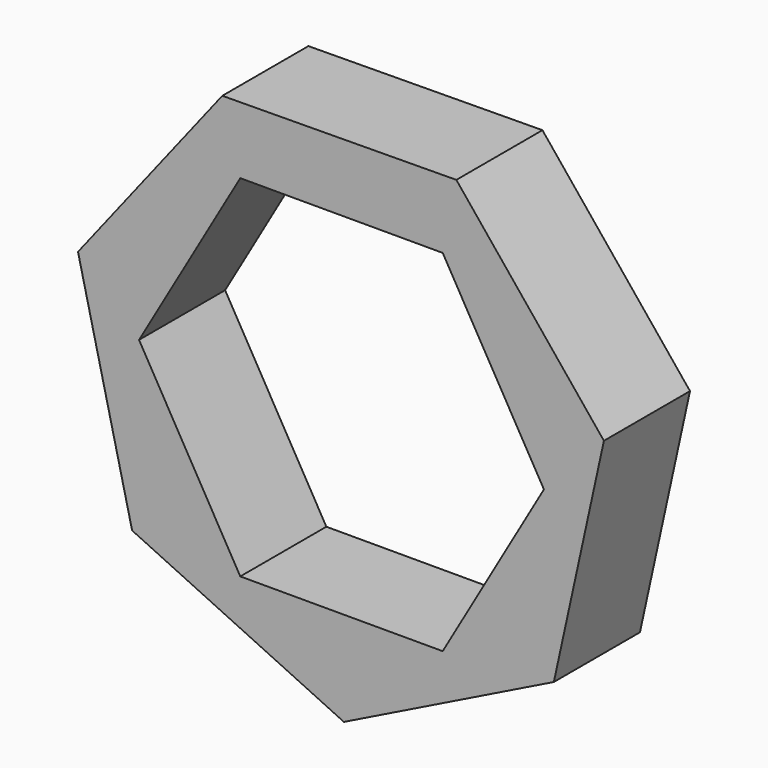
from build123d import *

# Parameters (mm, degrees)
F1_DEPTH = 25.4


with BuildPart() as f1:
    # F0 (on Front) → F1 (new body)
    with BuildSketch(Plane.XZ):
        Polygon((4.078272, -63.663129), (53.638862, -39.250497), (65.45282, 14.71856), (30.623995, 57.604241), (-24.620798, 57.112753), (-58.681102, 13.614198), (-45.908815, -40.136126), align=None)
        Polygon((51.292495, 0), (27.402193, -41.379217), (-20.378412, -41.379217), (-44.268714, 0), (-20.378412, 41.379217), (27.402193, 41.379217), align=None, mode=Mode.SUBTRACT)
    extrude(amount=F1_DEPTH)


solid = f1.part
